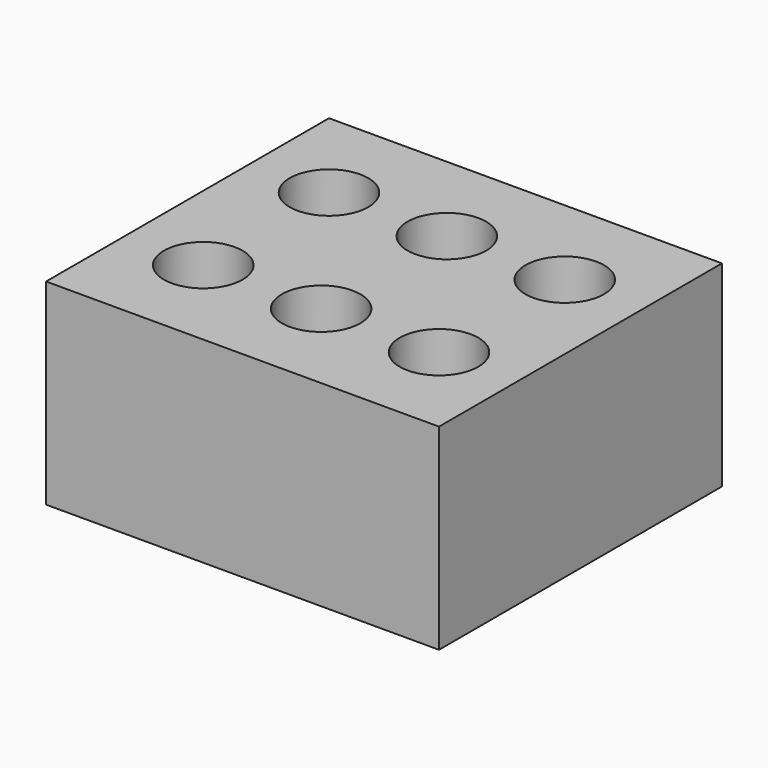
from build123d import *

# Parameters (mm, degrees)
CYLINDER001_R     = 2
CYLINDER001_DEPTH = 10
CYLINDER002_R     = 2
CYLINDER002_DEPTH = 10
CYLINDER_R        = 2
CYLINDER_DEPTH    = 10
BOX_W             = 20
BOX_H             = 10
BOX_DEPTH         = 10
CYLINDER004_R     = 2
CYLINDER004_DEPTH = 10
CYLINDER005_R     = 2
CYLINDER005_DEPTH = 10
CYLINDER003_R     = 2
CYLINDER003_DEPTH = 10
BOX001_W          = 20
BOX001_H          = 10
BOX001_DEPTH      = 10


with BuildPart() as cylinder001:
    # Cylinder001 → Cylinder001 (new body)
    with BuildSketch(Plane(origin=(10, 5, 0), x_dir=(1, 0, 0), z_dir=(0, 0, 1))):
        Circle(CYLINDER001_R)
    extrude(amount=CYLINDER001_DEPTH)


with BuildPart() as cylinder002:
    # Cylinder002 → Cylinder002 (new body)
    with BuildSketch(Plane(origin=(16, 5, 0), x_dir=(1, 0, 0), z_dir=(0, 0, 1))):
        Circle(CYLINDER002_R)
    extrude(amount=CYLINDER002_DEPTH)


with BuildPart() as cylinder:
    # Cylinder → Cylinder (new body)
    with BuildSketch(Plane(origin=(4, 5, 0), x_dir=(1, 0, 0), z_dir=(0, 0, 1))):
        Circle(CYLINDER_R)
    extrude(amount=CYLINDER_DEPTH)


with BuildPart() as cut002:
    # Box → Box (new body)
    with BuildSketch(Plane.XY):
        with Locations((10, 5)):
            Rectangle(BOX_W, BOX_H)
    extrude(amount=BOX_DEPTH)

    # Cut: cut Cylinder
    add(cylinder.part, mode=Mode.SUBTRACT)

    # Cut001: cut Cylinder002
    add(cylinder002.part, mode=Mode.SUBTRACT)

    # Cut002: cut Cylinder001
    add(cylinder001.part, mode=Mode.SUBTRACT)


with BuildPart() as cut002_1:
    # Cut002 placement: moved
    add(cut002.part.moved(Location((0, 9, 0))))


with BuildPart() as cylinder004:
    # Cylinder004 → Cylinder004 (new body)
    with BuildSketch(Plane(origin=(10, 5, 0), x_dir=(1, 0, 0), z_dir=(0, 0, 1))):
        Circle(CYLINDER004_R)
    extrude(amount=CYLINDER004_DEPTH)


with BuildPart() as cylinder005:
    # Cylinder005 → Cylinder005 (new body)
    with BuildSketch(Plane(origin=(16, 5, 0), x_dir=(1, 0, 0), z_dir=(0, 0, 1))):
        Circle(CYLINDER005_R)
    extrude(amount=CYLINDER005_DEPTH)


with BuildPart() as cylinder003:
    # Cylinder003 → Cylinder003 (new body)
    with BuildSketch(Plane(origin=(4, 5, 0), x_dir=(1, 0, 0), z_dir=(0, 0, 1))):
        Circle(CYLINDER003_R)
    extrude(amount=CYLINDER003_DEPTH)


with BuildPart() as fusion:
    # Box001 → Box001 (new body)
    with BuildSketch(Plane.XY):
        with Locations((10, 5)):
            Rectangle(BOX001_W, BOX001_H)
    extrude(amount=BOX001_DEPTH)

    # Cut003: cut Cylinder003
    add(cylinder003.part, mode=Mode.SUBTRACT)

    # Cut004: cut Cylinder005
    add(cylinder005.part, mode=Mode.SUBTRACT)

    # Cut005: cut Cylinder004
    add(cylinder004.part, mode=Mode.SUBTRACT)


with BuildPart() as fusion_1:
    # Cut005 placement: moved
    add(fusion.part.moved(Location((0, 1, 0))))

    # Fusion: union Cut002
    add(cut002_1.part)


solid = fusion_1.part
